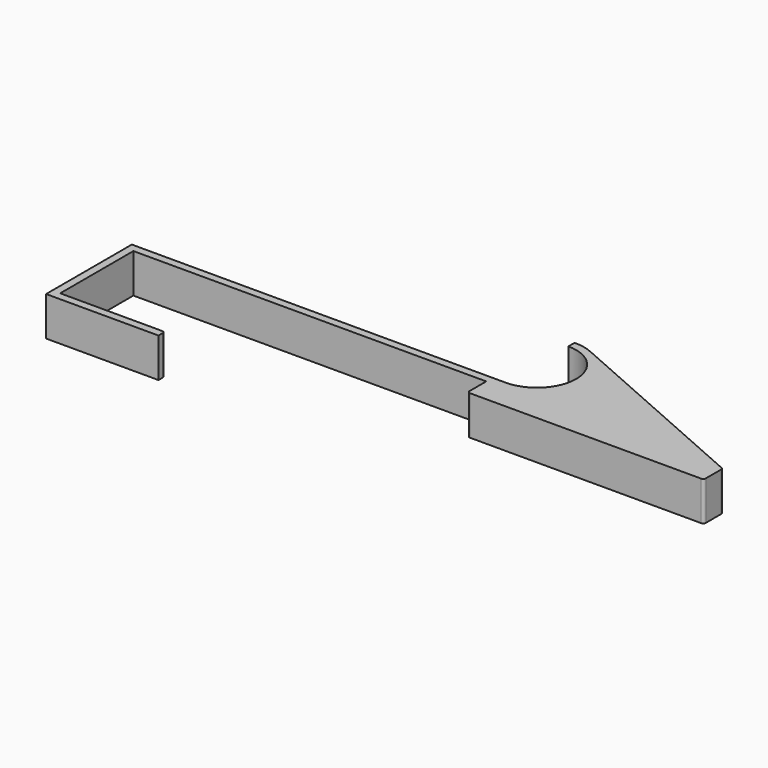
from build123d import *

# Parameters (mm, degrees)
F1_DEPTH = 15
F2_R     = 1


with BuildPart() as f1:
    # F0 (on Top) → F1 (new body)
    with BuildSketch(Plane.XY):
        with BuildLine():
            Line((-70, -35), (-70, 0))
            Line((-70, 0), (65, 0))
            Line((65, 0), (65, -9))
            Line((65, -9), (155.40206, -9))
            Line((155.40206, -9), (155.40206, 0))
            Line((155.40206, 0), (77.26491, 34.468791))
            ThreePointArc((77.26491, 34.468791), (85.791563, 9.361335), (60.050126, 3))
            Line((60.050126, 3), (-73, 3))
            Line((-73, 3), (-73, -38))
            Line((-73, -38), (-30, -38))
            Line((-30, -38), (-30, -35))
            Line((-30, -35), (-70, -35))
        make_face()
        with BuildLine():
            ThreePointArc((60.050126, 3), (85.791563, 9.361335), (77.26491, 34.468791))
            ThreePointArc((77.26491, 34.468791), (73.71226, 35.613038), (70, 36))
            Line((70, 36), (70, 33))
            ThreePointArc((70, 33), (85, 18), (70, 3))
            Line((70, 3), (60.050126, 3))
        make_face()
    extrude(amount=F1_DEPTH)

    # F2
    f2_edges = [f1.edges().sort_by_distance(p)[0] for p in [
        (65, -9, 7.5),
        (155.40206, -9, 7.5),
        (155.40206, 0, 7.5),
        (-30, -35, 7.5),
    ]]
    fillet(f2_edges, radius=F2_R)


solid = f1.part
